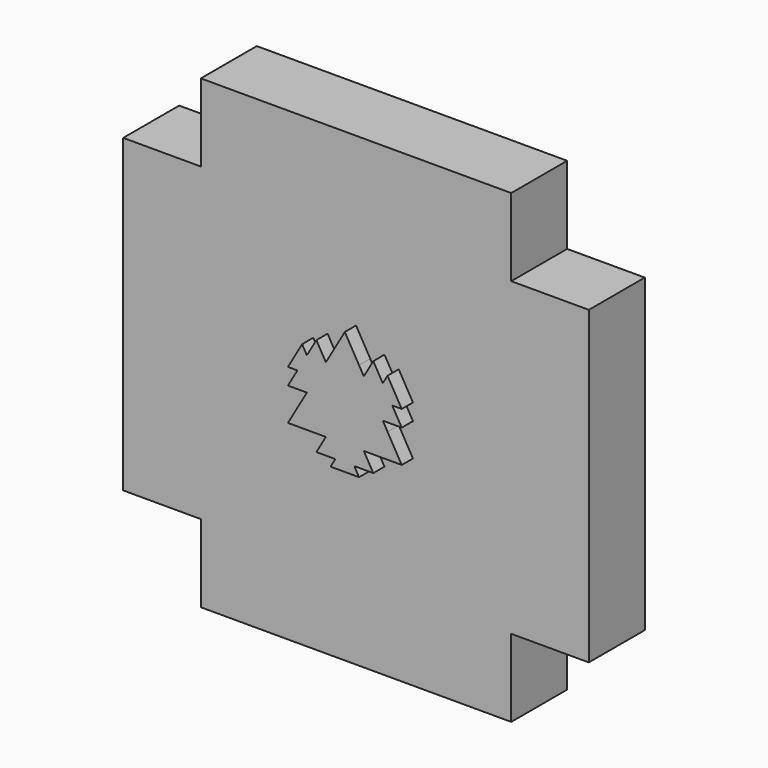
from build123d import *

# Parameters (mm, degrees)
F1_DEPTH = 30
F3_DEPTH = 25
F4_DEPTH = 25
F6_DEPTH = 25


with BuildPart() as f1:
    # F0 (on Front) → F1 (new body)
    with BuildSketch(Plane.XZ):
        Polygon((5.085602828, 14.6808708087), (0, 23.4893932939), (-5.085602828, 14.6808708087), (0, 5.8723483235), align=None)
        Polygon((6.7808037707, 11.7446966469), (5.085602828, 14.6808708087), (0, 5.8723483235), (3.3904018853, 5.8723483235), align=None)
        Polygon((10.171205656, 5.8723483235), (6.7808037707, 11.7446966469), (3.3904018853, 5.8723483235), align=None)
        Polygon((10.171205656, 17.6170449704), (6.7808037707, 11.7446966469), (10.171205656, 5.8723483235), (13.5616075413, 11.7446966469), align=None)
        Polygon((13.5616075413, 11.7446966469), (10.171205656, 5.8723483235), (16.9520094266, 5.8723483235), align=None)
        Polygon((15.256808484, 14.6808708087), (13.5616075413, 11.7446966469), (16.9520094266, 5.8723483235), (20.342411312, 5.8723483235), align=None)
        Polygon((16.9520094266, 5.8723483235), (10.171205656, 5.8723483235), (13.5616075413, 0), (20.342411312, 0), align=None)
        Polygon((13.5616075413, 0), (10.171205656, 5.8723483235), (6.7808037707, 0), align=None)
        Polygon((10.171205656, 5.8723483235), (3.3904018853, 5.8723483235), (0, 0), (6.7808037707, 0), align=None)
        Polygon((0, 5.8723483235), (-5.085602828, 14.6808708087), (-6.7808037707, 11.7446966469), (-3.3904018853, 5.8723483235), align=None)
        Polygon((-3.3904018853, 5.8723483235), (-6.7808037707, 11.7446966469), (-10.171205656, 5.8723483235), align=None)
        Polygon((-10.171205656, 5.8723483235), (-6.7808037707, 11.7446966469), (-10.171205656, 17.6170449704), (-13.5616075413, 11.7446966469), align=None)
        Polygon((-16.9520094266, 5.8723483235), (-13.5616075413, 11.7446966469), (-15.256808484, 14.6808708087), (-20.342411312, 5.8723483235), align=None)
        Polygon((-16.9520094266, 5.8723483235), (-10.171205656, 5.8723483235), (-13.5616075413, 11.7446966469), align=None)
        Polygon((-13.5616075413, 0), (-10.171205656, 5.8723483235), (-16.9520094266, 5.8723483235), (-20.342411312, 0), align=None)
        Polygon((-6.7808037707, 0), (-10.171205656, 5.8723483235), (-13.5616075413, 0), align=None)
        Polygon((0, 0), (-3.3904018853, 5.8723483235), (-10.171205656, 5.8723483235), (-6.7808037707, 0), align=None)
        Polygon((3.3904018853, 5.8723483235), (0, 5.8723483235), (-3.3904018853, 5.8723483235), (0, 0), align=None)
        Polygon((15.256808484, -2.9361741617), (13.5616075413, 0), (6.7808037707, 0), (5.085602828, -2.9361741617), align=None)
        Polygon((20.342411312, -11.7446966469), (15.256808484, -2.9361741617), (5.085602828, -2.9361741617), (10.171205656, -11.7446966469), align=None)
        Polygon((5.085602828, -2.9361741617), (3.3904018853, -5.8723483235), (6.7808037707, -11.7446966469), (10.171205656, -11.7446966469), align=None)
        Polygon((6.7808037707, -11.7446966469), (3.3904018853, -5.8723483235), (0, -11.7446966469), align=None)
        Polygon((3.3904018853, -5.8723483235), (0, 0), (-3.3904018853, -5.8723483235), (0, -11.7446966469), align=None)
        Polygon((6.7808037707, 0), (0, 0), (3.3904018853, -5.8723483235), (5.085602828, -2.9361741617), align=None)
        Polygon((-3.3904018853, -5.8723483235), (0, 0), (-6.7808037707, 0), (-5.085602828, -2.9361741617), align=None)
        Polygon((-6.7808037707, -11.7446966469), (-3.3904018853, -5.8723483235), (-5.085602828, -2.9361741617), (-10.171205656, -11.7446966469), align=None)
        Polygon((-5.085602828, -2.9361741617), (-6.7808037707, 0), (-13.5616075413, 0), (-15.256808484, -2.9361741617), align=None)
        Polygon((-10.171205656, -11.7446966469), (-5.085602828, -2.9361741617), (-15.256808484, -2.9361741617), (-20.342411312, -11.7446966469), align=None)
        Polygon((0, -11.7446966469), (-3.3904018853, -5.8723483235), (-6.7808037707, -11.7446966469), align=None)
        Polygon((-3.3904018853, -17.6170449704), (0, -11.7446966469), (-6.7808037707, -11.7446966469), (-10.171205656, -17.6170449704), align=None)
        Polygon((3.3904018853, -17.6170449704), (0, -11.7446966469), (-3.3904018853, -17.6170449704), align=None)
        Polygon((10.171205656, -17.6170449704), (6.7808037707, -11.7446966469), (0, -11.7446966469), (3.3904018853, -17.6170449704), align=None)
        Polygon((5.085602828, -20.5532191321), (3.3904018853, -17.6170449704), (-3.3904018853, -17.6170449704), (-5.085602828, -20.5532191321), align=None)
    extrude(amount=F1_DEPTH)


with BuildPart() as f3:
    # F2 (on Front) → F3 (new body)
    with BuildSketch(Plane.XZ):
        Polygon((27.7376268059, 83.2128804177), (0, 55.4752536118), (27.7376268059, 55.4752536118), align=None)
        Polygon((0, 83.2128804177), (0, 55.4752536118), (27.7376268059, 83.2128804177), align=None)
        Polygon((-27.7376268059, 55.4752536118), (0, 55.4752536118), (-27.7376268059, 83.2128804177), align=None)
        Polygon((-27.7376268059, 83.2128804177), (0, 55.4752536118), (0, 83.2128804177), align=None)
        Polygon((27.7376268059, 55.4752536118), (27.7376268059, 27.7376268059), (55.4752536118, 55.4752536118), align=None)
        Polygon((55.4752536118, 55.4752536118), (27.7376268059, 27.7376268059), (55.4752536118, 27.7376268059), align=None)
        Polygon((-55.4752536118, 27.7376268059), (-27.7376268059, 27.7376268059), (-55.4752536118, 55.4752536118), align=None)
        Polygon((-55.4752536118, 55.4752536118), (-27.7376268059, 27.7376268059), (-27.7376268059, 55.4752536118), align=None)
        Polygon((27.7376268059, 83.2128804177), (27.7376268059, 55.4752536118), (55.4752536118, 55.4752536118), align=None)
        Polygon((-55.4752536118, 55.4752536118), (-27.7376268059, 55.4752536118), (-27.7376268059, 83.2128804177), align=None)
        Polygon((55.4752536118, 83.2128804177), (27.7376268059, 83.2128804177), (55.4752536118, 55.4752536118), align=None)
        Polygon((-55.4752536118, 55.4752536118), (-27.7376268059, 83.2128804177), (-55.4752536118, 83.2128804177), align=None)
        Polygon((83.2128804177, -27.7376268059), (55.4752536118, 0), (55.4752536118, -27.7376268059), align=None)
        Polygon((55.4752536118, 27.7376268059), (55.4752536118, 0), (83.2128804177, 27.7376268059), align=None)
        Polygon((83.2128804177, 0), (55.4752536118, 0), (83.2128804177, -27.7376268059), align=None)
        Polygon((83.2128804177, 27.7376268059), (55.4752536118, 0), (83.2128804177, 0), align=None)
        Polygon((83.2128804177, 27.7376268059), (55.4752536118, 55.4752536118), (55.4752536118, 27.7376268059), align=None)
        Polygon((83.2128804177, 55.4752536118), (55.4752536118, 55.4752536118), (83.2128804177, 27.7376268059), align=None)
        Polygon((-83.2128804177, 27.7376268059), (-55.4752536118, 0), (-55.4752536118, 27.7376268059), align=None)
        Polygon((-55.4752536118, -27.7376268059), (-55.4752536118, 0), (-83.2128804177, -27.7376268059), align=None)
        Polygon((-83.2128804177, 0), (-55.4752536118, 0), (-83.2128804177, 27.7376268059), align=None)
        Polygon((-83.2128804177, -27.7376268059), (-55.4752536118, 0), (-83.2128804177, 0), align=None)
        Polygon((-55.4752536118, 27.7376268059), (-55.4752536118, 55.4752536118), (-83.2128804177, 27.7376268059), align=None)
        Polygon((-83.2128804177, 27.7376268059), (-55.4752536118, 55.4752536118), (-83.2128804177, 55.4752536118), align=None)
        Polygon((55.4752536118, -27.7376268059), (27.7376268059, -27.7376268059), (55.4752536118, -55.4752536118), align=None)
        Polygon((55.4752536118, -55.4752536118), (27.7376268059, -27.7376268059), (27.7376268059, -55.4752536118), align=None)
        Polygon((83.2128804177, -27.7376268059), (55.4752536118, -27.7376268059), (55.4752536118, -55.4752536118), align=None)
        Polygon((83.2128804177, -55.4752536118), (83.2128804177, -27.7376268059), (55.4752536118, -55.4752536118), align=None)
        Polygon((-27.7376268059, -55.4752536118), (-27.7376268059, -27.7376268059), (-55.4752536118, -55.4752536118), align=None)
        Polygon((-55.4752536118, -55.4752536118), (-27.7376268059, -27.7376268059), (-55.4752536118, -27.7376268059), align=None)
        Polygon((-55.4752536118, -55.4752536118), (-55.4752536118, -27.7376268059), (-83.2128804177, -27.7376268059), align=None)
        Polygon((-55.4752536118, -55.4752536118), (-83.2128804177, -27.7376268059), (-83.2128804177, -55.4752536118), align=None)
        Polygon((-27.7376268059, -83.2128804177), (0, -55.4752536118), (-27.7376268059, -55.4752536118), align=None)
        Polygon((27.7376268059, -55.4752536118), (0, -55.4752536118), (27.7376268059, -83.2128804177), align=None)
        Polygon((0, -83.2128804177), (0, -55.4752536118), (-27.7376268059, -83.2128804177), align=None)
        Polygon((27.7376268059, -83.2128804177), (0, -55.4752536118), (0, -83.2128804177), align=None)
        Polygon((27.7376268059, -83.2128804177), (55.4752536118, -55.4752536118), (27.7376268059, -55.4752536118), align=None)
        Polygon((55.4752536118, -83.2128804177), (55.4752536118, -55.4752536118), (27.7376268059, -83.2128804177), align=None)
        Polygon((-27.7376268059, -55.4752536118), (-55.4752536118, -55.4752536118), (-27.7376268059, -83.2128804177), align=None)
        Polygon((-27.7376268059, -83.2128804177), (-55.4752536118, -55.4752536118), (-55.4752536118, -83.2128804177), align=None)
    extrude(amount=F3_DEPTH)


with BuildPart() as f4:
    # F0 (on Front) → F4 (new body)
    with BuildSketch(Plane.XZ):
        Polygon((5.085602828, 14.6808708087), (0, 23.4893932939), (-5.085602828, 14.6808708087), (0, 5.8723483235), align=None)
        Polygon((6.7808037707, 11.7446966469), (5.085602828, 14.6808708087), (0, 5.8723483235), (3.3904018853, 5.8723483235), align=None)
        Polygon((0, 5.8723483235), (-5.085602828, 14.6808708087), (-6.7808037707, 11.7446966469), (-3.3904018853, 5.8723483235), align=None)
        Polygon((10.171205656, 5.8723483235), (6.7808037707, 11.7446966469), (3.3904018853, 5.8723483235), align=None)
        Polygon((10.171205656, 17.6170449704), (6.7808037707, 11.7446966469), (10.171205656, 5.8723483235), (13.5616075413, 11.7446966469), align=None)
        Polygon((-10.171205656, 5.8723483235), (-6.7808037707, 11.7446966469), (-10.171205656, 17.6170449704), (-13.5616075413, 11.7446966469), align=None)
        Polygon((-3.3904018853, 5.8723483235), (-6.7808037707, 11.7446966469), (-10.171205656, 5.8723483235), align=None)
        Polygon((16.9520094266, 5.8723483235), (10.171205656, 5.8723483235), (13.5616075413, 0), (20.342411312, 0), align=None)
        Polygon((13.5616075413, 0), (10.171205656, 5.8723483235), (6.7808037707, 0), align=None)
        Polygon((13.5616075413, 11.7446966469), (10.171205656, 5.8723483235), (16.9520094266, 5.8723483235), align=None)
        Polygon((-13.5616075413, 0), (-10.171205656, 5.8723483235), (-16.9520094266, 5.8723483235), (-20.342411312, 0), align=None)
        Polygon((-16.9520094266, 5.8723483235), (-10.171205656, 5.8723483235), (-13.5616075413, 11.7446966469), align=None)
        Polygon((-6.7808037707, 0), (-10.171205656, 5.8723483235), (-13.5616075413, 0), align=None)
        Polygon((15.256808484, 14.6808708087), (13.5616075413, 11.7446966469), (16.9520094266, 5.8723483235), (20.342411312, 5.8723483235), align=None)
        Polygon((15.256808484, -2.9361741617), (13.5616075413, 0), (6.7808037707, 0), (5.085602828, -2.9361741617), align=None)
        Polygon((-16.9520094266, 5.8723483235), (-13.5616075413, 11.7446966469), (-15.256808484, 14.6808708087), (-20.342411312, 5.8723483235), align=None)
        Polygon((-5.085602828, -2.9361741617), (-6.7808037707, 0), (-13.5616075413, 0), (-15.256808484, -2.9361741617), align=None)
        Polygon((5.085602828, -2.9361741617), (3.3904018853, -5.8723483235), (6.7808037707, -11.7446966469), (10.171205656, -11.7446966469), align=None)
        Polygon((6.7808037707, -11.7446966469), (3.3904018853, -5.8723483235), (0, -11.7446966469), align=None)
        Polygon((0, -11.7446966469), (-3.3904018853, -5.8723483235), (-6.7808037707, -11.7446966469), align=None)
        Polygon((-6.7808037707, -11.7446966469), (-3.3904018853, -5.8723483235), (-5.085602828, -2.9361741617), (-10.171205656, -11.7446966469), align=None)
        Polygon((20.342411312, -11.7446966469), (15.256808484, -2.9361741617), (5.085602828, -2.9361741617), (10.171205656, -11.7446966469), align=None)
        Polygon((-10.171205656, -11.7446966469), (-5.085602828, -2.9361741617), (-15.256808484, -2.9361741617), (-20.342411312, -11.7446966469), align=None)
        Polygon((10.171205656, -17.6170449704), (6.7808037707, -11.7446966469), (0, -11.7446966469), (3.3904018853, -17.6170449704), align=None)
        Polygon((-3.3904018853, -17.6170449704), (0, -11.7446966469), (-6.7808037707, -11.7446966469), (-10.171205656, -17.6170449704), align=None)
        Polygon((3.3904018853, -17.6170449704), (0, -11.7446966469), (-3.3904018853, -17.6170449704), align=None)
        Polygon((5.085602828, -20.5532191321), (3.3904018853, -17.6170449704), (-3.3904018853, -17.6170449704), (-5.085602828, -20.5532191321), align=None)
    extrude(amount=F4_DEPTH)


with BuildPart() as f6:
    # F2 (on Front) → F6 (new body)
    with BuildSketch(Plane.XZ):
        Polygon((-55.4752536118, 55.4752536118), (-27.7376268059, 83.2128804177), (-55.4752536118, 83.2128804177), align=None)
        Polygon((-55.4752536118, 55.4752536118), (-27.7376268059, 55.4752536118), (-27.7376268059, 83.2128804177), align=None)
        Polygon((-27.7376268059, 55.4752536118), (0, 55.4752536118), (-27.7376268059, 83.2128804177), align=None)
        Polygon((-27.7376268059, 83.2128804177), (0, 55.4752536118), (0, 83.2128804177), align=None)
        Polygon((0, 83.2128804177), (0, 55.4752536118), (27.7376268059, 83.2128804177), align=None)
        Polygon((27.7376268059, 83.2128804177), (0, 55.4752536118), (27.7376268059, 55.4752536118), align=None)
        Polygon((27.7376268059, 83.2128804177), (27.7376268059, 55.4752536118), (55.4752536118, 55.4752536118), align=None)
        Polygon((55.4752536118, 83.2128804177), (27.7376268059, 83.2128804177), (55.4752536118, 55.4752536118), align=None)
        Polygon((83.2128804177, 55.4752536118), (55.4752536118, 55.4752536118), (83.2128804177, 27.7376268059), align=None)
        Polygon((83.2128804177, 27.7376268059), (55.4752536118, 55.4752536118), (55.4752536118, 27.7376268059), align=None)
        Polygon((55.4752536118, 55.4752536118), (27.7376268059, 27.7376268059), (55.4752536118, 27.7376268059), align=None)
        Polygon((27.7376268059, 55.4752536118), (27.7376268059, 27.7376268059), (55.4752536118, 55.4752536118), align=None)
        Polygon((27.7376268059, 55.4752536118), (0, 55.4752536118), (27.7376268059, 27.7376268059), align=None)
        Polygon((27.7376268059, 27.7376268059), (0, 55.4752536118), (0, 27.7376268059), align=None)
        Polygon((0, 27.7376268059), (0, 55.4752536118), (-27.7376268059, 27.7376268059), align=None)
        Polygon((-27.7376268059, 27.7376268059), (0, 55.4752536118), (-27.7376268059, 55.4752536118), align=None)
        Polygon((-55.4752536118, 55.4752536118), (-27.7376268059, 27.7376268059), (-27.7376268059, 55.4752536118), align=None)
        Polygon((-55.4752536118, 27.7376268059), (-27.7376268059, 27.7376268059), (-55.4752536118, 55.4752536118), align=None)
        Polygon((-55.4752536118, 27.7376268059), (-55.4752536118, 55.4752536118), (-83.2128804177, 27.7376268059), align=None)
        Polygon((-83.2128804177, 27.7376268059), (-55.4752536118, 55.4752536118), (-83.2128804177, 55.4752536118), align=None)
        Polygon((-83.2128804177, 0), (-55.4752536118, 0), (-83.2128804177, 27.7376268059), align=None)
        Polygon((-83.2128804177, 27.7376268059), (-55.4752536118, 0), (-55.4752536118, 27.7376268059), align=None)
        Polygon((-55.4752536118, 0), (-27.7376268059, 27.7376268059), (-55.4752536118, 27.7376268059), align=None)
        Polygon((-27.7376268059, 0), (-27.7376268059, 27.7376268059), (-55.4752536118, 0), align=None)
        Polygon((0, 0), (-27.7376268059, 27.7376268059), (-27.7376268059, 0), align=None)
        Polygon((0, 27.7376268059), (-27.7376268059, 27.7376268059), (0, 0), align=None)
        Polygon((0, 0), (27.7376268059, 27.7376268059), (0, 27.7376268059), align=None)
        Polygon((27.7376268059, 0), (27.7376268059, 27.7376268059), (0, 0), align=None)
        Polygon((55.4752536118, 0), (27.7376268059, 27.7376268059), (27.7376268059, 0), align=None)
        Polygon((55.4752536118, 27.7376268059), (27.7376268059, 27.7376268059), (55.4752536118, 0), align=None)
        Polygon((55.4752536118, 27.7376268059), (55.4752536118, 0), (83.2128804177, 27.7376268059), align=None)
        Polygon((83.2128804177, 27.7376268059), (55.4752536118, 0), (83.2128804177, 0), align=None)
        Polygon((83.2128804177, 0), (55.4752536118, 0), (83.2128804177, -27.7376268059), align=None)
        Polygon((83.2128804177, -27.7376268059), (55.4752536118, 0), (55.4752536118, -27.7376268059), align=None)
        Polygon((55.4752536118, -27.7376268059), (55.4752536118, 0), (27.7376268059, -27.7376268059), align=None)
        Polygon((27.7376268059, -27.7376268059), (55.4752536118, 0), (27.7376268059, 0), align=None)
        Polygon((27.7376268059, 0), (0, 0), (27.7376268059, -27.7376268059), align=None)
        Polygon((27.7376268059, -27.7376268059), (0, 0), (0, -27.7376268059), align=None)
        Polygon((0, -27.7376268059), (0, 0), (-27.7376268059, -27.7376268059), align=None)
        Polygon((-27.7376268059, -27.7376268059), (0, 0), (-27.7376268059, 0), align=None)
        Polygon((-27.7376268059, 0), (-55.4752536118, 0), (-27.7376268059, -27.7376268059), align=None)
        Polygon((-27.7376268059, -27.7376268059), (-55.4752536118, 0), (-55.4752536118, -27.7376268059), align=None)
        Polygon((-55.4752536118, -27.7376268059), (-55.4752536118, 0), (-83.2128804177, -27.7376268059), align=None)
        Polygon((-83.2128804177, -27.7376268059), (-55.4752536118, 0), (-83.2128804177, 0), align=None)
        Polygon((-55.4752536118, -55.4752536118), (-55.4752536118, -27.7376268059), (-83.2128804177, -27.7376268059), align=None)
        Polygon((-55.4752536118, -55.4752536118), (-83.2128804177, -27.7376268059), (-83.2128804177, -55.4752536118), align=None)
        Polygon((-55.4752536118, -55.4752536118), (-27.7376268059, -27.7376268059), (-55.4752536118, -27.7376268059), align=None)
        Polygon((-27.7376268059, -55.4752536118), (-27.7376268059, -27.7376268059), (-55.4752536118, -55.4752536118), align=None)
        Polygon((0, -55.4752536118), (-27.7376268059, -27.7376268059), (-27.7376268059, -55.4752536118), align=None)
        Polygon((0, -55.4752536118), (0, -27.7376268059), (-27.7376268059, -27.7376268059), align=None)
        Polygon((0, -55.4752536118), (27.7376268059, -27.7376268059), (0, -27.7376268059), align=None)
        Polygon((27.7376268059, -55.4752536118), (27.7376268059, -27.7376268059), (0, -55.4752536118), align=None)
        Polygon((55.4752536118, -55.4752536118), (27.7376268059, -27.7376268059), (27.7376268059, -55.4752536118), align=None)
        Polygon((55.4752536118, -27.7376268059), (27.7376268059, -27.7376268059), (55.4752536118, -55.4752536118), align=None)
        Polygon((83.2128804177, -27.7376268059), (55.4752536118, -27.7376268059), (55.4752536118, -55.4752536118), align=None)
        Polygon((83.2128804177, -55.4752536118), (83.2128804177, -27.7376268059), (55.4752536118, -55.4752536118), align=None)
        Polygon((55.4752536118, -83.2128804177), (55.4752536118, -55.4752536118), (27.7376268059, -83.2128804177), align=None)
        Polygon((27.7376268059, -83.2128804177), (55.4752536118, -55.4752536118), (27.7376268059, -55.4752536118), align=None)
        Polygon((27.7376268059, -55.4752536118), (0, -55.4752536118), (27.7376268059, -83.2128804177), align=None)
        Polygon((27.7376268059, -83.2128804177), (0, -55.4752536118), (0, -83.2128804177), align=None)
        Polygon((0, -83.2128804177), (0, -55.4752536118), (-27.7376268059, -83.2128804177), align=None)
        Polygon((-27.7376268059, -83.2128804177), (0, -55.4752536118), (-27.7376268059, -55.4752536118), align=None)
        Polygon((-27.7376268059, -55.4752536118), (-55.4752536118, -55.4752536118), (-27.7376268059, -83.2128804177), align=None)
        Polygon((-27.7376268059, -83.2128804177), (-55.4752536118, -55.4752536118), (-55.4752536118, -83.2128804177), align=None)
    extrude(amount=F6_DEPTH)


solid = Compound([f1.part, f3.part, f6.part])
